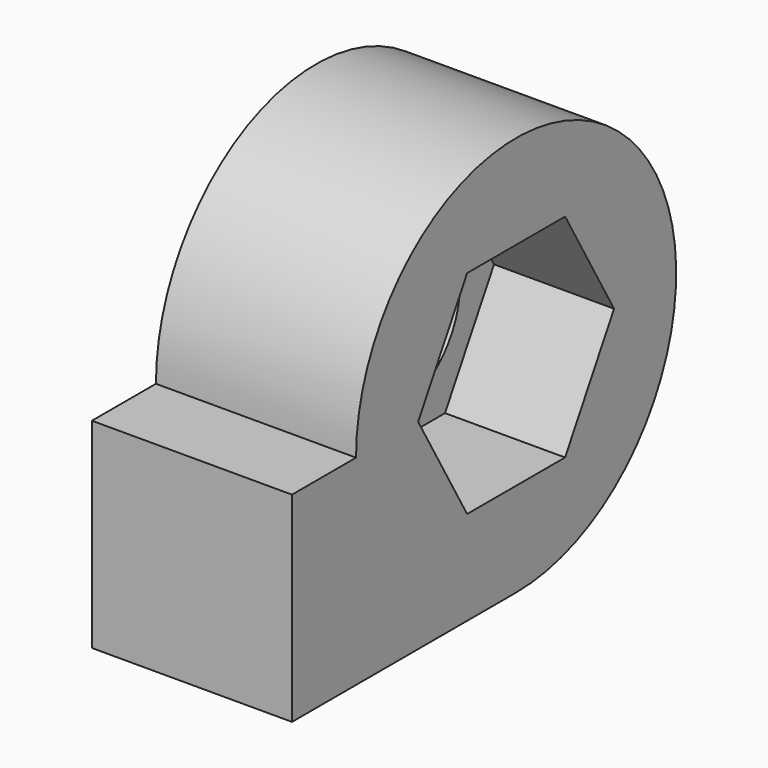
from build123d import *

# Parameters (mm, degrees)
PAD001004_DEPTH    = 2.5
SKETCH006_R        = 2
POCKET003_DEPTH    = 5.001
POCKET003003_DEPTH = 3


with BuildPart() as part:
    # Sketch005 → Pad001004 (new body, symmetric)
    with BuildSketch(Plane.YZ):
        with BuildLine():
            Line((-5, 0), (-7, 0))
            Line((-7, 0), (-7, -5))
            Line((-7, -5), (1.8e-05, -5))
            ThreePointArc((1.8e-05, -5), (3.535528, 3.53554), (-5, 0))
        make_face()
    extrude(amount=PAD001004_DEPTH, both=True)

    # Sketch006 → Pocket003 (cut, through all)
    with BuildSketch(Plane.YZ.offset(2.5)):
        Circle(SKETCH006_R)
    extrude(amount=-POCKET003_DEPTH, mode=Mode.SUBTRACT)

    # Sketch007 → Pocket003003 (cut)
    with BuildSketch(Plane.YZ.offset(2.5)):
        Polygon((-3.059956, 0), (-1.529978, 2.65), (1.529978, 2.65), (3.059956, 0), (1.529978, -2.65), (-1.529978, -2.65), align=None)
    extrude(amount=-POCKET003003_DEPTH, mode=Mode.SUBTRACT)


solid = part.part
